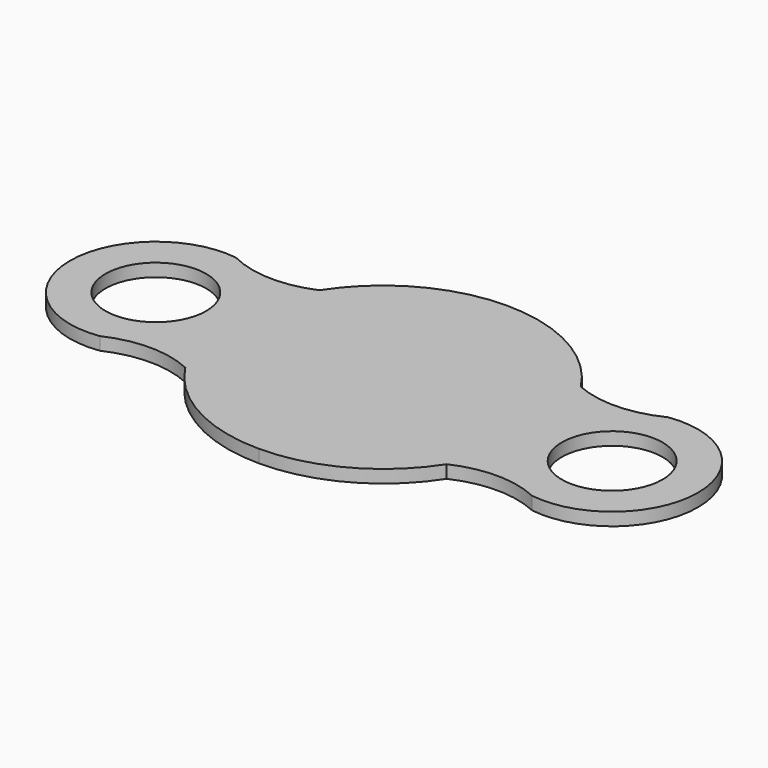
from build123d import *

# Parameters (mm, degrees)
F0_R     = 23.463897
F1_DEPTH = 6


with BuildPart() as f1:
    # F0 (on Top) → F1 (new body)
    with BuildSketch(Plane.XY):
        with BuildLine():
            ThreePointArc((-86.926048, -34.256375), (-67.038092, -29.842687), (-47.150135, -34.256375))
            ThreePointArc((-47.150135, -34.256375), (-20.95056, -58.624549), (13.729382, -67.429506))
            ThreePointArc((13.729382, -67.429506), (48.409324, -58.624549), (74.6089, -34.256375))
            ThreePointArc((74.6089, -34.256375), (94.496856, -29.842687), (114.384812, -34.256375))
            ThreePointArc((114.384812, -34.256375), (160.014332, 5.3455), (114.384812, 44.947375))
            ThreePointArc((114.384812, 44.947375), (94.617364, 39.989092), (74.6089, 43.861815))
            ThreePointArc((74.6089, 43.861815), (48.409324, 68.229988), (13.729382, 77.034945))
            ThreePointArc((13.729382, 77.034945), (-20.95056, 68.229988), (-47.150135, 43.861815))
            ThreePointArc((-47.150135, 43.861815), (-67.158599, 39.989092), (-86.926048, 44.947375))
            ThreePointArc((-86.926048, 44.947375), (-132.555567, 5.3455), (-86.926048, -34.256375))
        make_face()
        with Locations((-92.555567, 5.3455)):
            Circle(F0_R, mode=Mode.SUBTRACT)
        with Locations((120.014332, 5.3455)):
            Circle(F0_R, mode=Mode.SUBTRACT)
    extrude(amount=F1_DEPTH)


solid = f1.part
